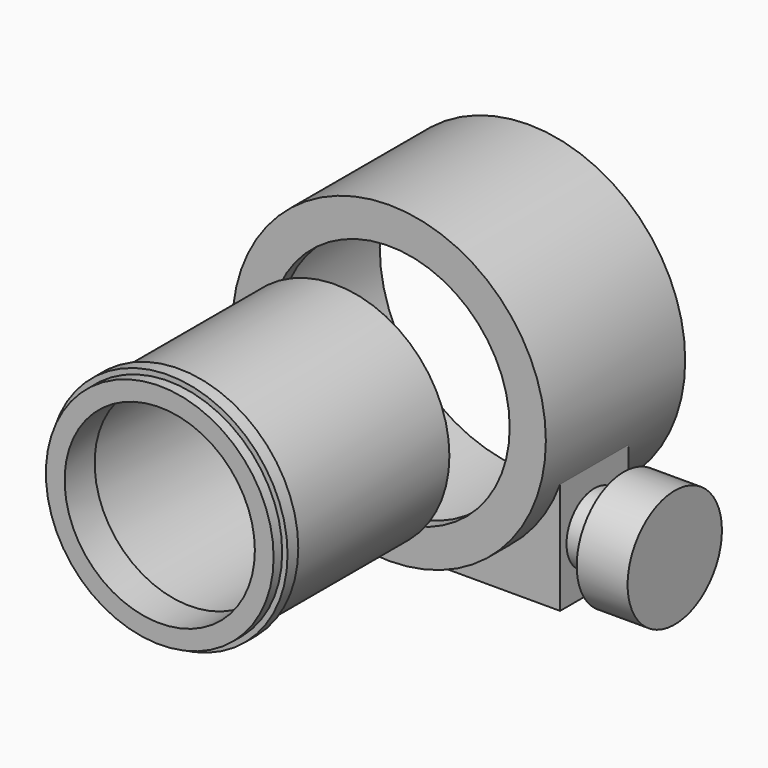
from build123d import *

# Parameters (mm, degrees)
F3_R      = 42.5
F3_R_2    = 38
F4_DEPTH  = 82
F5_R      = 42.5
F5_R_2    = 38
F5_R_3    = 35.5
F6_DEPTH  = 14
F7_DEPTH  = 14
F5_R_4    = 44.5
F8_DEPTH  = 9
F9_DEPTH  = 4
F13_R     = 58.5
F13_R_2   = 55.5
F13_R_3   = 45
F14_DEPTH = 65
F15_DEPTH = 60
F17_W     = 110
F17_H     = 32
F18_DEPTH = 44.8
F19_R     = 55.5
F20_DEPTH = 35
F21_R     = 13
F22_DEPTH = 30
F23_R     = 22
F23_R_2   = 13
F24_DEPTH = 19
F25_R     = 13
F26_DEPTH = 30
F27_R     = 22
F27_R_2   = 13
F28_DEPTH = 19


with BuildPart() as f4:
    # F3 (on Front) → F4 (new body)
    with BuildSketch(Plane.XZ):
        Circle(F3_R)
        Circle(F3_R_2, mode=Mode.SUBTRACT)
    extrude(amount=F4_DEPTH)

    # F5 (on face) → F6 (join)
    with BuildSketch(Plane.XZ.offset(82)):
        Circle(F5_R)
        Circle(F5_R_2, mode=Mode.SUBTRACT)
        Circle(F5_R_2)
        Circle(F5_R_3, mode=Mode.SUBTRACT)
    extrude(amount=-F6_DEPTH)

    # F5 (on face) → F7 (join)
    with BuildSketch(Plane.XZ.offset(82)):
        Circle(F5_R_2)
        Circle(F5_R_3, mode=Mode.SUBTRACT)
    extrude(amount=-F7_DEPTH)

    # F5 (on face) → F8 (join)
    with BuildSketch(Plane.XZ.offset(82)):
        Circle(F5_R_4)
        Circle(F5_R, mode=Mode.SUBTRACT)
    extrude(amount=-F8_DEPTH)

    # F5 (on face) → F9 (cut)
    with BuildSketch(Plane.XZ.offset(82)):
        Circle(F5_R_4)
        Circle(F5_R, mode=Mode.SUBTRACT)
    extrude(amount=-F9_DEPTH, mode=Mode.SUBTRACT)


with BuildPart() as f14:
    # F13 (on offset) → F14 (new body)
    with BuildSketch(Plane.XZ.offset(-90)):
        Circle(F13_R)
        Circle(F13_R_2, mode=Mode.SUBTRACT)
        Circle(F13_R_2)
        Circle(F13_R_3, mode=Mode.SUBTRACT)
    extrude(amount=F14_DEPTH)

    # F13 (on offset) → F15 (cut)
    with BuildSketch(Plane.XZ.offset(-90)):
        Circle(F13_R_2)
        Circle(F13_R_3, mode=Mode.SUBTRACT)
    extrude(amount=F15_DEPTH, mode=Mode.SUBTRACT)

    # F17 (on offset) → F18 (join)
    with BuildSketch(Plane.XY.offset(-61.5)):
        with Locations((0, 52)):
            Rectangle(F17_W, F17_H)
    extrude(amount=F18_DEPTH)

    # F19 (on face) → F20 (cut)
    with BuildSketch(Plane(origin=(0, 68, 0), x_dir=(-1, 0, 0), z_dir=(0, 1, 0))):
        Circle(F19_R)
    extrude(amount=-F20_DEPTH, mode=Mode.SUBTRACT)

    # F21 (on face) → F22 (join)
    with BuildSketch(Plane(origin=(-55, 0, 0), x_dir=(0, -1, 0), z_dir=(-1, 0, 0))):
        with Locations((-52, -40.715565714)):
            Circle(F21_R)
    extrude(amount=F22_DEPTH)

    # F23 (on face) → F24 (join)
    with BuildSketch(Plane(origin=(-85, 0, 0), x_dir=(0, -1, 0), z_dir=(-1, 0, 0))):
        with Locations((-52, -40.715565714)):
            Circle(F23_R)
        with Locations((-52, -40.715565714)):
            Circle(F23_R_2, mode=Mode.SUBTRACT)
    extrude(amount=-F24_DEPTH)

    # F25 (on face) → F26 (join)
    with BuildSketch(Plane.YZ.offset(55)):
        with Locations((52, -40.715565714)):
            Circle(F25_R)
    extrude(amount=F26_DEPTH)

    # F27 (on face) → F28 (join)
    with BuildSketch(Plane.YZ.offset(85)):
        with Locations((52, -40.715565714)):
            Circle(F27_R)
        with Locations((52, -40.715565714)):
            Circle(F27_R_2, mode=Mode.SUBTRACT)
        with Locations((52, -40.715565714)):
            Circle(F27_R_2)
    extrude(amount=-F28_DEPTH)


solid = Compound([f4.part, f14.part])
